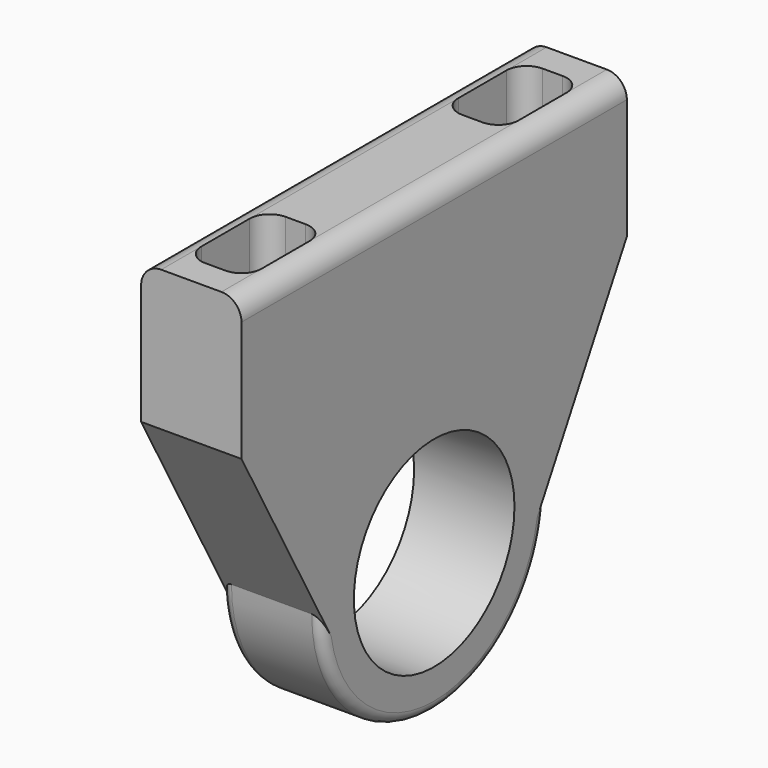
from build123d import *

# Parameters (mm, degrees)
F0_R     = 10
F1_DEPTH = 10
F2_R     = 1
F3_R     = 2
F4_W     = 6
F4_H     = 10
F5_DEPTH = 15
F6_R     = 2


with BuildPart() as f1:
    # F0 (on Right) → F1 (new body)
    with BuildSketch(Plane.YZ):
        with BuildLine():
            Line((24, 32), (-24, 32))
            Line((-24, 32), (-24, 18))
            Line((-24, 18), (-14, 0))
            ThreePointArc((-14, 0), (0, -14), (14, 0))
            Line((14, 0), (24, 18))
            Line((24, 18), (24, 32))
        make_face()
        Circle(F0_R, mode=Mode.SUBTRACT)
    extrude(amount=F1_DEPTH)

    # F2
    f2_edges = [f1.edges().sort_by_distance(p)[0] for p in [
        (0, 0, -14),
        (10, 0, -14),
    ]]
    fillet(f2_edges, radius=F2_R)

    # F3
    f3_edges = [f1.edges().sort_by_distance(p)[0] for p in [
        (0, 0, 32),
        (10, 0, 32),
    ]]
    fillet(f3_edges, radius=F3_R)

    # F4 (on face) → F5 (cut)
    with BuildSketch(Plane.XY.offset(32)):
        with Locations((5, 16)):
            Rectangle(F4_W, F4_H)
        with Locations((5, -16)):
            Rectangle(F4_W, F4_H)
    extrude(amount=-F5_DEPTH, mode=Mode.SUBTRACT)

    # F6
    f6_edges = [f1.edges().sort_by_distance(p)[0] for p in [
        (2, 21, 24.5),
        (8, 21, 24.5),
        (8, 11, 24.5),
        (2, 11, 24.5),
        (2, -21, 24.5),
        (8, -21, 24.5),
        (8, -11, 24.5),
        (2, -11, 24.5),
    ]]
    fillet(f6_edges, radius=F6_R)


solid = f1.part
